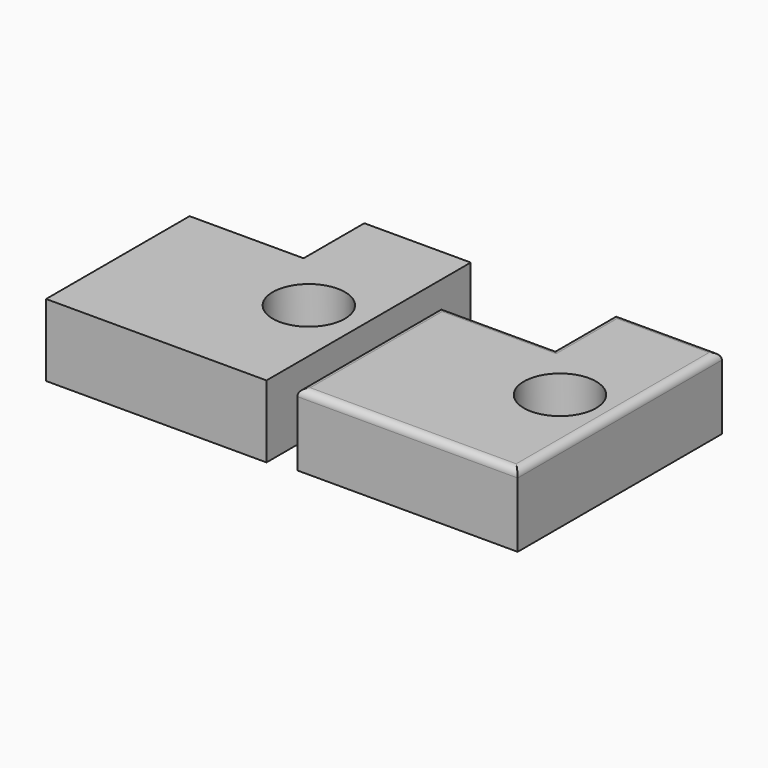
from build123d import *

# Parameters (mm, degrees)
PAD_DEPTH    = 10
SKETCH001_R  = 5
POCKET_DEPTH = 10.001
FILLET_R     = 1


with BuildPart() as pocket:
    # Sketch → Pad (new body)
    with BuildSketch(Plane.XY):
        Polygon((-13.119188, -6.577201), (-13.119188, 18.260599), (2.667712, 18.260599), (2.667712, 28.773099), (17.402212, 28.773099), (17.402212, -6.577201), align=None)
    extrude(amount=PAD_DEPTH)

    # Sketch001 → Pocket (cut, through all)
    with BuildSketch(Plane.XY.offset(10)):
        with Locations((10, 10)):
            Circle(SKETCH001_R)
    extrude(amount=-POCKET_DEPTH, mode=Mode.SUBTRACT)


with BuildPart() as fillet_body:
    # Clone base: copy of Pocket
    add(pocket.part)


with BuildPart() as fillet_body_1:
    # Clone placement: moved
    add(fillet_body.part.moved(Location((34.286051, 0.619013, 0))))

    # Fillet
    fillet_edges = [fillet_body_1.edges().sort_by_distance(p)[0] for p in [
        (21.166863, 6.460712, 10),
        (36.427563, -5.958188, 10),
        (29.060313, 18.879612, 10),
        (51.688263, 11.716962, 10),
        (36.953763, 24.135862, 10),
        (44.321013, 29.392112, 10),
    ]]
    fillet(fillet_edges, radius=FILLET_R)


solid = Compound([pocket.part, fillet_body_1.part])
